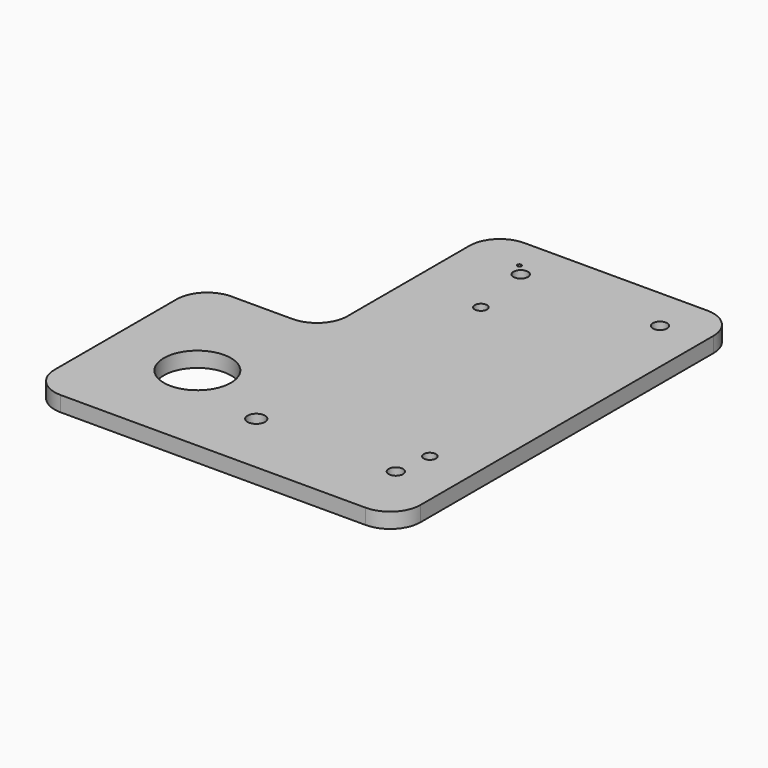
from build123d import *

# Parameters (mm, degrees)
F0_R     = 6.985
F0_R_2   = 1.804442
F0_R_3   = 1.4986
F0_R_4   = 1.27
F0_R_5   = 0.4445
F0_R_6   = 1.5
F1_DEPTH = 3.175


with BuildPart() as f1:
    # F0 (on Top) → F1 (new body)
    with BuildSketch(Plane.XY):
        with BuildLine():
            ThreePointArc((-31.595516, -60.452), (-29.735644, -64.942128), (-25.245516, -66.802))
            Line((-25.245516, -66.802), (38.254484, -66.802))
            ThreePointArc((38.254484, -66.802), (42.744612, -64.942128), (44.604484, -60.452))
            Line((44.604484, -60.452), (44.604484, 15.748))
            ThreePointArc((44.604484, 15.748), (42.744612, 20.238128), (38.254484, 22.098))
            Line((38.254484, 22.098), (0.154484, 22.098))
            ThreePointArc((0.154484, 22.098), (-4.335644, 20.238128), (-6.195516, 15.748))
            Line((-6.195516, 15.748), (-6.195516, -16.002))
            ThreePointArc((-6.195516, -16.002), (-8.055388, -20.492128), (-12.545516, -22.352))
            Line((-12.545516, -22.352), (-25.245516, -22.352))
            ThreePointArc((-25.245516, -22.352), (-29.735644, -24.211872), (-31.595516, -28.702))
            Line((-31.595516, -28.702), (-31.595516, -60.452))
        make_face()
        with Locations((-13.307516, -46.1518)):
            Circle(F0_R, mode=Mode.SUBTRACT)
        with Locations((4.801642, -53.465958)):
            Circle(F0_R_2, mode=Mode.SUBTRACT)
        with Locations((34.114284, -53.784222)):
            Circle(F0_R_3, mode=Mode.SUBTRACT)
        with Locations((35.079484, -46.1518)):
            Circle(F0_R_4, mode=Mode.SUBTRACT)
        with Locations((4.496019, 15.415596)):
            Circle(F0_R_5, mode=Mode.SUBTRACT)
        with Locations((8.790484, 0)):
            Circle(F0_R_4, mode=Mode.SUBTRACT)
        with Locations((6.604484, 13.1064)):
            Circle(F0_R_3, mode=Mode.SUBTRACT)
        with Locations((35.604484, 13.1064)):
            Circle(F0_R_6, mode=Mode.SUBTRACT)
    extrude(amount=F1_DEPTH)


solid = f1.part
